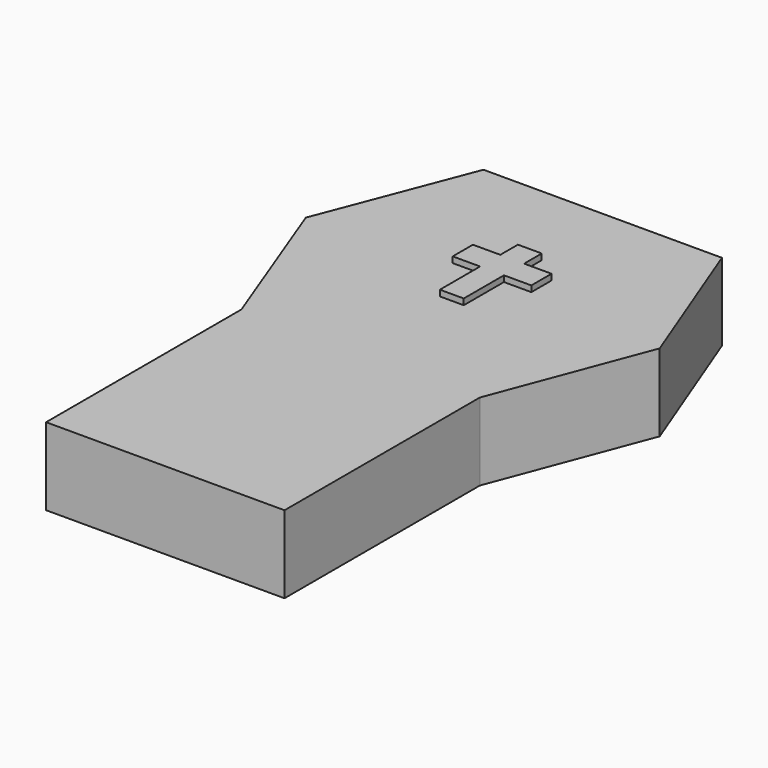
from build123d import *

# Parameters (mm, degrees)
F1_DEPTH = 16.51
F3_DEPTH = 1.27


with BuildPart() as f1:
    # F0 (on Top) → F1 (new body)
    with BuildSketch(Plane.XY):
        Polygon((-25.4, -68.146345), (0, -68.146345), (25.4, -68.146345), (25.4, -16.117122), (37.702557, 16.404929), (25.4, 48.351366), (-25.4, 48.351366), (-37.702557, 16.404929), (-25.4, -16.117122), align=None)
    extrude(amount=F1_DEPTH)


with BuildPart() as f3:
    # F2 (on face) → F3 (new body)
    with BuildSketch(Plane.XY.offset(16.51)):
        Polygon((-2.54, 8.164284), (0, 8.164284), (2.54, 8.164284), (2.54, 18.868566), (8.37418, 18.868566), (8.37418, 24.247402), (2.54, 24.247402), (2.54, 28.940339), (-2.54, 28.940339), (-2.54, 24.247402), (-8.37418, 24.247402), (-8.37418, 18.868566), (-2.54, 18.868566), align=None)
    extrude(amount=F3_DEPTH)


solid = Compound([f1.part, f3.part])
